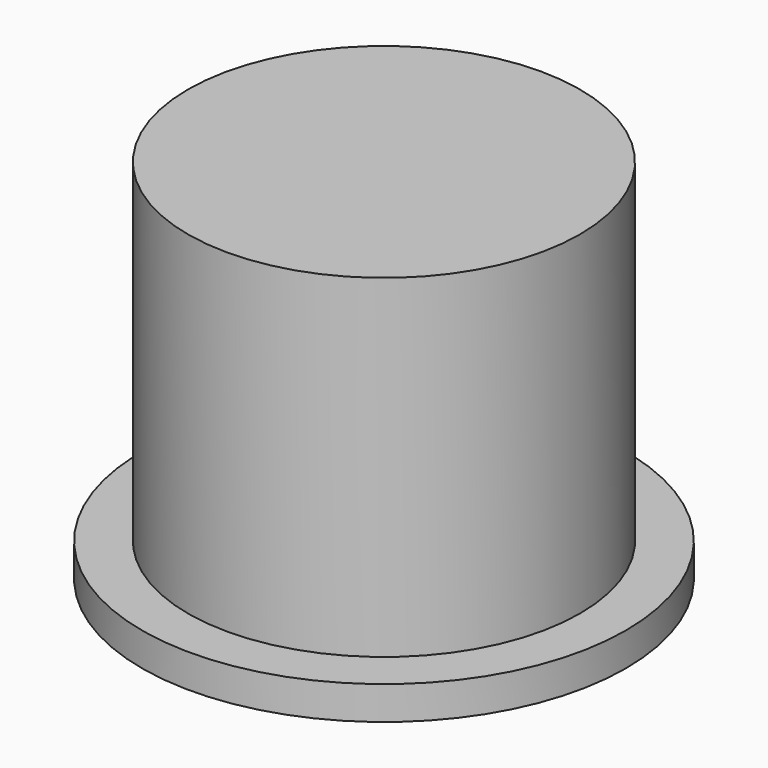
from build123d import *

# Parameters (mm, degrees)
SKETCH_R     = 2.9
PAD_DEPTH    = 0.4
SKETCH001_R  = 2.35
PAD001_DEPTH = 4


with BuildPart() as part:
    # Sketch → Pad (new body)
    with BuildSketch(Plane.XY):
        Circle(SKETCH_R)
    extrude(amount=PAD_DEPTH)

    # Sketch001 → Pad001 (new body)
    with BuildSketch(Plane.XY.offset(0.4)):
        Circle(SKETCH001_R)
    extrude(amount=PAD001_DEPTH)


solid = part.part
